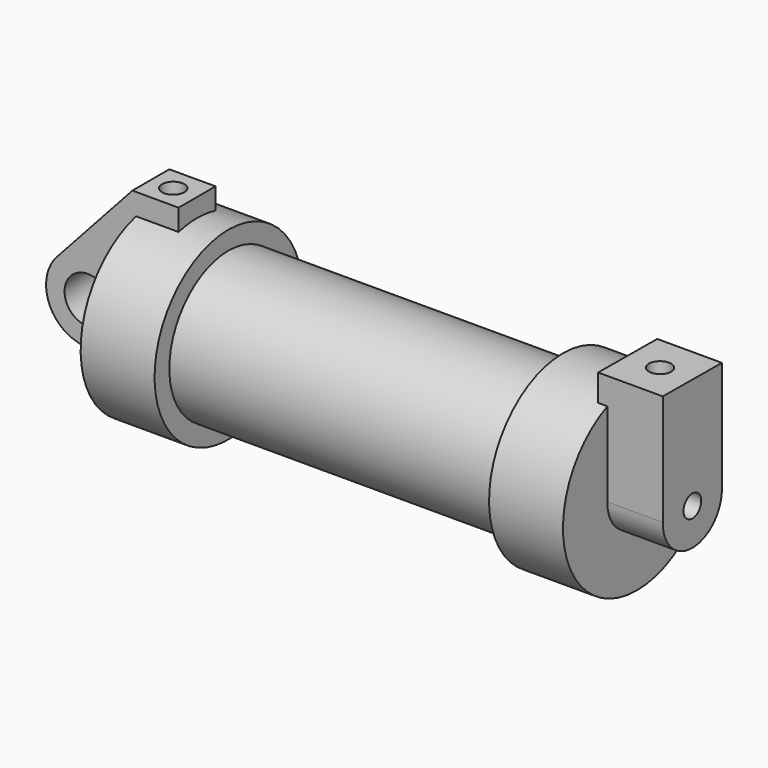
from build123d import *

# Parameters (mm, degrees)
F0_W      = 5.842
F0_H      = 12.7
F0_R      = 3.175
F2_DEPTH  = 3.175
F3_DEPTH  = 6.35
F4_R      = 1.524
F5_DEPTH  = 7.62
F6_DEPTH  = 1.27
F8_R      = 1.524
F9_DEPTH  = 10.414
F7_R      = 1.524
F10_DEPTH = 17.78


with BuildPart() as f1:
    # F0 (on Front) → F1 (revolve)
    with BuildSketch(Plane.XZ):
        Polygon((5.842, 12.7), (5.842, 0), (66.294, 0), (66.294, 12.7), (56.134, 12.7), (56.134, 10.16), (10.16, 10.16), (10.16, 12.7), align=None)
        with Locations((2.921, 6.35)):
            Rectangle(F0_W, F0_H)
    revolve(axis=Axis((33.147, 0, 0), (-1, 0, 0)))

    # F0 (on Front) → F2 (join)
    with BuildSketch(Plane.XZ):
        with BuildLine():
            Line((-0.9398, 0), (0, 0))
            Line((0, 0), (0, 12.7))
            Line((0, 12.7), (5.842, 12.7))
            Line((5.842, 12.7), (5.842, 15.24))
            Line((5.842, 15.24), (-0.508, 15.24))
            Line((-0.508, 15.24), (-10.8806298187, 3.8475430269))
            ThreePointArc((-10.8806298187, 3.8475430269), (-4.5919612295, 5.3297205562), (-0.9398, 0))
        make_face()
        with BuildLine():
            ThreePointArc((-8.1826630726, -5.5069827884), (-3.1957909266, -4.5493385486), (-0.9398, 0))
            ThreePointArc((-0.9398, 0), (-4.5919612295, 5.3297205562), (-10.8806298187, 3.8475430269))
            ThreePointArc((-10.8806298187, 3.8475430269), (-12.1459778134, -1.5837270034), (-8.1826630726, -5.5069827884))
        make_face()
        with Locations((-6.6548, 0)):
            Circle(F0_R, mode=Mode.SUBTRACT)
        with BuildLine():
            Line((5.842, 0), (0, 0))
            Line((0, 0), (-0.9398, 0))
            ThreePointArc((-0.9398, 0), (-3.1957909266, -4.5493385486), (-8.1826630726, -5.5069827884))
            Line((-8.1826630726, -5.5069827884), (5.842, -9.398))
            Line((5.842, -9.398), (5.842, 0))
        make_face()
        with Locations((2.921, 6.35)):
            Rectangle(F0_W, F0_H)
    extrude(amount=F2_DEPTH)

    # F3 (add): a face of the model
    f3_faces = [f1.faces().sort_by_distance(p)[0] for p in [
        (-3.7379712186, -3.175, 3.6396098822),
    ]]
    extrude(f3_faces, amount=-F3_DEPTH)

    # F4 (on face) → F5 (join)
    with BuildSketch(Plane.YZ.offset(66.294)):
        with BuildLine():
            ThreePointArc((-5.0794025007, 0.0779117191), (-0.0389570051, -5.079850623), (5.08, 0))
            ThreePointArc((5.08, 0), (5.0799978531, 0.0046703639), (5.0799914125, 0.0093407238))
            ThreePointArc((5.0799914125, 0.0093407238), (0.0342867621, 5.0798842918), (-5.0794025007, 0.0779117191))
        make_face()
        Circle(F4_R, mode=Mode.SUBTRACT)
        with BuildLine():
            ThreePointArc((-5.0794025007, 0.0779117191), (0.0342867621, 5.0798842918), (5.0799914125, 0.0093407238))
            Line((5.0799914125, 0.0093407238), (5.0799914125, 11.6397460131))
            ThreePointArc((5.0799914125, 11.6397460131), (0.0003212741, 12.6999999959), (-5.0794025007, 11.640003017))
            Line((-5.0794025007, 11.640003017), (-5.0794025007, 0.0779117191))
        make_face()
        with BuildLine():
            ThreePointArc((-5.0794025007, 11.640003017), (0.0003212741, 12.6999999959), (5.0799914125, 11.6397460131))
            Line((5.0799914125, 11.6397460131), (5.0799914125, 15.2493407238))
            Line((5.0799914125, 15.2493407238), (-5.0794025007, 15.3179117191))
            Line((-5.0794025007, 15.3179117191), (-5.0794025007, 11.640003017))
        make_face()
    extrude(amount=F5_DEPTH)

    # F6 (add): a face of the model
    f6_faces = [f1.faces().sort_by_distance(p)[0] for p in [
        (66.294, -0.0194413751, 13.8014276959),
    ]]
    extrude(f6_faces, amount=F6_DEPTH)

    # F8 (on face) → F9 (cut)
    with BuildSketch(Plane(origin=(0, 0.1031523992, 15.2829319801), x_dir=(1, 0, 0), z_dir=(0, 0.0067493626, 0.9999772228))):
        with Locations((69.469, -0.1028602862)):
            Circle(F8_R)
    extrude(amount=-F9_DEPTH, mode=Mode.SUBTRACT)

    # F7 (on face) → F10 (cut)
    with BuildSketch(Plane.XY.offset(15.24)):
        with Locations((2.5670649484, 0)):
            Circle(F7_R)
    extrude(amount=-F10_DEPTH, mode=Mode.SUBTRACT)


solid = f1.part
